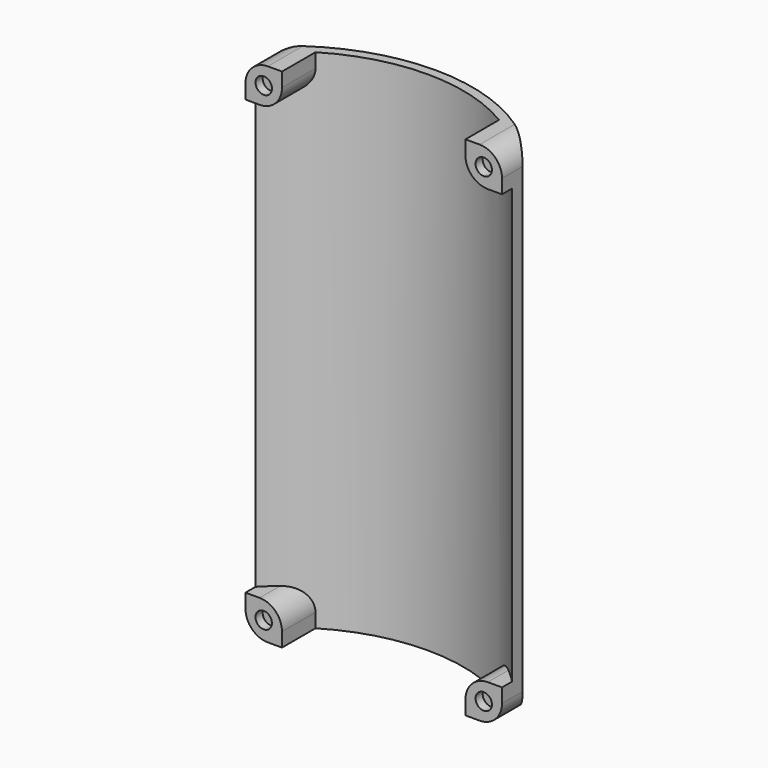
from build123d import *

# Parameters (mm, degrees)
F1_DEPTH = 34
F2_R     = 1.1
F4_DEPTH = 1.2
F5_R     = 3


with BuildPart() as f1:
    # F0 (on Top) → F1 (new body, symmetric)
    with BuildSketch(Plane.XY):
        with BuildLine():
            Line((17.2, 1.6774998092), (17.2, 3.4427671539))
            ThreePointArc((17.2, 3.4427671539), (0, 10.3), (-17.2, 3.4427671539))
            Line((-17.2, 3.4427671539), (-17.2, 1.6774998092))
            ThreePointArc((-17.2, 1.6774998092), (0, 9.05), (17.2, 1.6774998092))
        make_face()
    extrude(amount=F1_DEPTH, both=True)

    # F2 (on Front) → F3 (join, up to the next surface of F1)
    with BuildSketch(Plane.XZ):
        with BuildLine():
            Line((15.3, 29.1), (17.2, 29.1))
            Line((17.2, 29.1), (17.2, 34))
            Line((17.2, 34), (12.3, 34))
            Line((12.3, 34), (12.3, 32.1))
            ThreePointArc((12.3, 32.1), (13.1786796564, 29.9786796564), (15.3, 29.1))
        make_face()
        with Locations((14.75, 31.55)):
            Circle(F2_R, mode=Mode.SUBTRACT)
        with BuildLine():
            Line((-12.3, 34), (-17.2, 34))
            Line((-17.2, 34), (-17.2, 29.1))
            Line((-17.2, 29.1), (-15.3, 29.1))
            ThreePointArc((-15.3, 29.1), (-13.1786796564, 29.9786796564), (-12.3, 32.1))
            Line((-12.3, 32.1), (-12.3, 34))
        make_face()
        with Locations((-14.75, 31.55)):
            Circle(F2_R, mode=Mode.SUBTRACT)
        with Locations((14.75, 31.55)):
            Circle(F2_R)
        with Locations((-14.75, 31.55)):
            Circle(F2_R)
        with BuildLine():
            Line((-15.3, -29.1), (-17.2, -29.1))
            Line((-17.2, -29.1), (-17.2, -34))
            Line((-17.2, -34), (-12.3, -34))
            Line((-12.3, -34), (-12.3, -32.1))
            ThreePointArc((-12.3, -32.1), (-13.1786796564, -29.9786796564), (-15.3, -29.1))
        make_face()
        with Locations((-14.75, -31.55)):
            Circle(F2_R, mode=Mode.SUBTRACT)
        with Locations((-14.75, -31.55)):
            Circle(F2_R)
        with BuildLine():
            Line((12.3, -34), (17.2, -34))
            Line((17.2, -34), (17.2, -29.1))
            Line((17.2, -29.1), (15.3, -29.1))
            ThreePointArc((15.3, -29.1), (13.1786796564, -29.9786796564), (12.3, -32.1))
            Line((12.3, -32.1), (12.3, -34))
        make_face()
        with Locations((14.75, -31.55)):
            Circle(F2_R, mode=Mode.SUBTRACT)
        with Locations((14.75, -31.55)):
            Circle(F2_R)
    extrude(until=Until.NEXT, dir=(0, 1, 0))

    # F2 (on Front) → F4 (cut)
    with BuildSketch(Plane.XZ):
        with Locations((-14.75, -31.55)):
            Circle(F2_R)
        with Locations((-14.75, 31.55)):
            Circle(F2_R)
        with Locations((14.75, 31.55)):
            Circle(F2_R)
        with Locations((14.75, -31.55)):
            Circle(F2_R)
    extrude(amount=-F4_DEPTH, mode=Mode.SUBTRACT)

    # F5
    f5_edges = [f1.edges().sort_by_distance(p)[0] for p in [
        (-17.2, 1.721384, 34),
        (17.2, 1.721384, 34),
        (-17.2, 1.721384, -34),
        (17.2, 1.721384, -34),
    ]]
    fillet(f5_edges, radius=F5_R)


solid = f1.part
